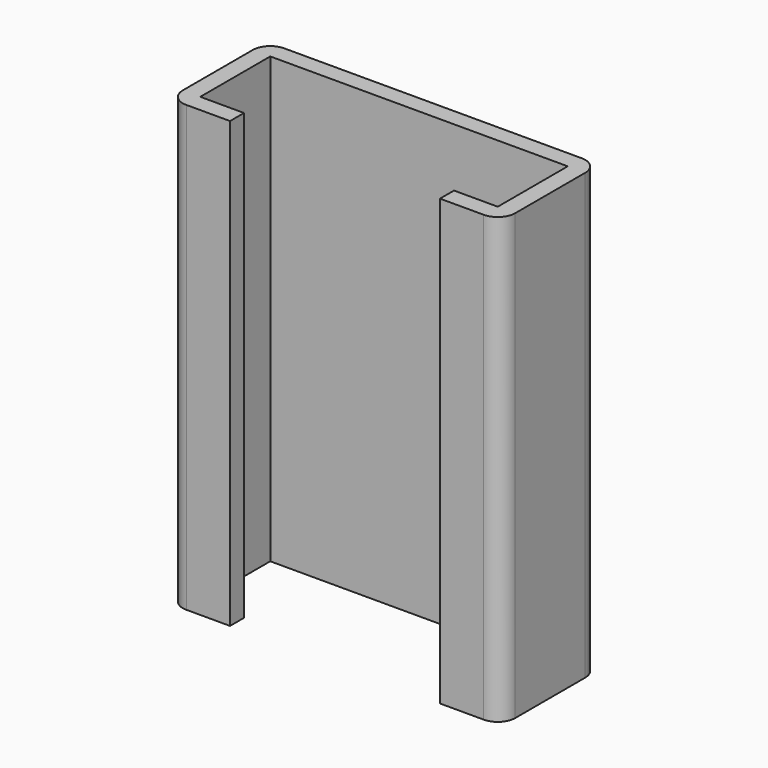
from build123d import *

# Parameters (mm, degrees)
F1_DEPTH = 25.4
F2_R     = 1
F3_R     = 1


with BuildPart() as f1:
    # F0 (on Top) → F1 (new body)
    with BuildSketch(Plane.XY):
        Polygon((-8.5, 0), (0, 0), (0, 1), (-9.5, 1), (-9.5, -6), (-6, -6), (-6, -5), (-8.5, -5), align=None)
        Polygon((0, 1), (0, 0), (8.5, 0), (8.5, -5), (6, -5), (6, -6), (9.5, -6), (9.5, 1), align=None)
    extrude(amount=F1_DEPTH)

    # F2
    f2_edges = [f1.edges().sort_by_distance(p)[0] for p in [
        (-9.5, 1, 12.7),
        (9.5, 1, 12.7),
    ]]
    fillet(f2_edges, radius=F2_R)

    # F3
    f3_edges = [f1.edges().sort_by_distance(p)[0] for p in [
        (-9.5, -6, 12.7),
        (9.5, -6, 12.7),
    ]]
    fillet(f3_edges, radius=F3_R)


solid = f1.part
